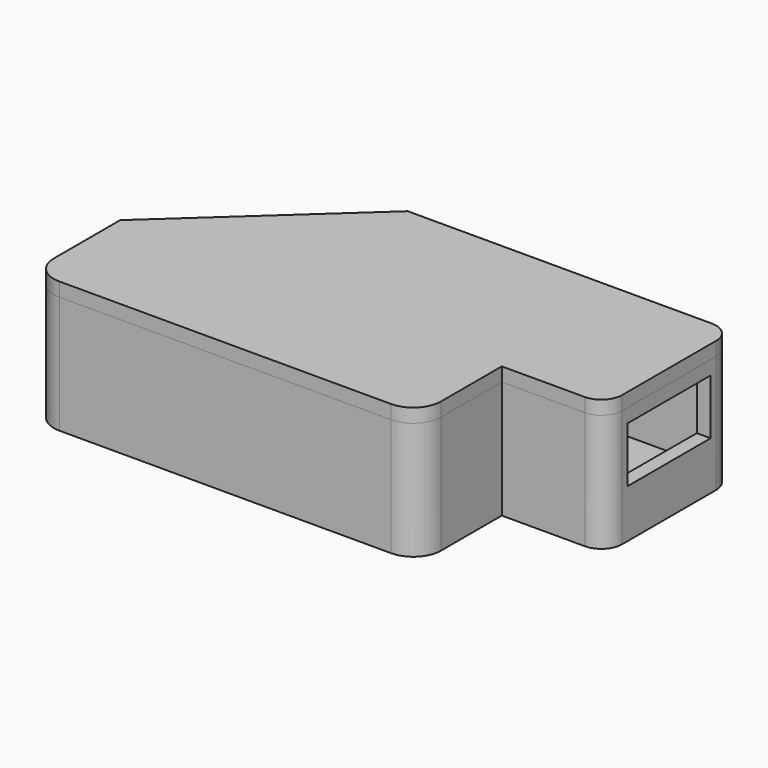
from build123d import *

# Parameters (mm, degrees)
CYLINDER001_R     = 2
CYLINDER001_DEPTH = 10
CYLINDER_R        = 2
CYLINDER_DEPTH    = 10
BOX004_W          = 15
BOX004_H          = 15
BOX004_DEPTH      = 8
BOX003_W          = 15
BOX003_H          = 15
BOX003_DEPTH      = 17
BOX002_W          = 15
BOX002_H          = 15
BOX002_DEPTH      = 15
BOX_W             = 67
BOX_H             = 34
BOX_DEPTH         = 15
CHAMFER_SIZE2     = 22
CHAMFER_SIZE      = 20
BOX001_W          = 71
BOX001_H          = 38
BOX001_DEPTH      = 17
CHAMFER001_SIZE2  = 24
CHAMFER001_SIZE   = 22
FILLET_R          = 4
FILLET001_R       = 2
FILLET002_R       = 4
FILLET003_R       = 2
FILLET004_R       = 1
FILLET005_R       = 3
BOX006_W          = 15
BOX006_H          = 15
BOX006_DEPTH      = 2
BOX005_W          = 71
BOX005_H          = 38
BOX005_DEPTH      = 2
FILLET006_R       = 4
FILLET007_R       = 4
CHAMFER002_SIZE2  = 24
CHAMFER002_SIZE   = 22
FILLET008_R       = 3


with BuildPart() as cylinder001:
    # Cylinder001 → Cylinder001 (new body)
    with BuildSketch(Plane(origin=(8, 17, 5), x_dir=(1, 0, 0), z_dir=(0, 1, 0))):
        Circle(CYLINDER001_R)
    extrude(amount=CYLINDER001_DEPTH)


with BuildPart() as cylinder:
    # Cylinder → Cylinder (new body)
    with BuildSketch(Plane(origin=(42, 32, 10), x_dir=(1, 0, 0), z_dir=(0, 1, 0))):
        Circle(CYLINDER_R)
    extrude(amount=CYLINDER_DEPTH)


with BuildPart() as cube004:
    # Box004 → Box004 (new body)
    with BuildSketch(Plane(origin=(66, 17, 5), x_dir=(1, 0, 0), z_dir=(0, 0, 1))):
        with Locations((7.5, 7.5)):
            Rectangle(BOX004_W, BOX004_H)
    extrude(amount=BOX004_DEPTH)


with BuildPart() as cube003:
    # Box003 → Box003 (new body)
    with BuildSketch(Plane(origin=(54, -2, -2), x_dir=(1, 0, 0), z_dir=(0, 0, 1))):
        with Locations((7.5, 7.5)):
            Rectangle(BOX003_W, BOX003_H)
    extrude(amount=BOX003_DEPTH)


with BuildPart() as cube002:
    # Box002 → Box002 (new body)
    with BuildSketch(Plane(origin=(52, 0, 0), x_dir=(1, 0, 0), z_dir=(0, 0, 1))):
        with Locations((7.5, 7.5)):
            Rectangle(BOX002_W, BOX002_H)
    extrude(amount=BOX002_DEPTH)


with BuildPart() as chamfer_body:
    # Box → Box (new body)
    with BuildSketch(Plane.XY):
        with Locations((33.5, 17)):
            Rectangle(BOX_W, BOX_H)
    extrude(amount=BOX_DEPTH)

    # Cut: cut Cube002
    add(cube002.part, mode=Mode.SUBTRACT)

    # Chamfer
    chamfer_edges = [chamfer_body.edges().sort_by_distance(p)[0] for p in [
        (0, 34, 7.5),
    ]]
    chamfer_side = chamfer_body.faces().sort_by_distance((0, 17, 7.5))[0]
    chamfer(chamfer_edges, length=CHAMFER_SIZE, length2=CHAMFER_SIZE2, reference=chamfer_side)


with BuildPart() as bottom:
    # Box001 → Box001 (new body)
    with BuildSketch(Plane(origin=(-2, -2, -2), x_dir=(1, 0, 0), z_dir=(0, 0, 1))):
        with Locations((35.5, 19)):
            Rectangle(BOX001_W, BOX001_H)
    extrude(amount=BOX001_DEPTH)

    # Cut001: cut Chamfer body
    add(chamfer_body.part, mode=Mode.SUBTRACT)

    # Cut002: cut Cube003
    add(cube003.part, mode=Mode.SUBTRACT)

    # Chamfer001
    chamfer001_edges = [bottom.edges().sort_by_distance(p)[0] for p in [
        (-2, 36, 6.5),
    ]]
    chamfer001_side = bottom.faces().sort_by_distance((-2, 17, 6.5))[0]
    chamfer(chamfer001_edges, length=CHAMFER001_SIZE, length2=CHAMFER001_SIZE2, reference=chamfer001_side)

    # Cut003: cut Cube004
    add(cube004.part, mode=Mode.SUBTRACT)

    # Cut004: cut Cylinder
    add(cylinder.part, mode=Mode.SUBTRACT)

    # Cut005: cut Cylinder001
    add(cylinder001.part, mode=Mode.SUBTRACT)

    # Fillet
    fillet_edges = [bottom.edges().sort_by_distance(p)[0] for p in [
        (-2, -2, 6.5),
    ]]
    fillet(fillet_edges, radius=FILLET_R)

    # Fillet001
    fillet001_edges = [bottom.edges().sort_by_distance(p)[0] for p in [
        (0, 0, 7.5),
    ]]
    fillet(fillet001_edges, radius=FILLET001_R)

    # Fillet002
    fillet002_edges = [bottom.edges().sort_by_distance(p)[0] for p in [
        (54, -2, 6.5),
    ]]
    fillet(fillet002_edges, radius=FILLET002_R)

    # Fillet003
    fillet003_edges = [bottom.edges().sort_by_distance(p)[0] for p in [
        (52, 0, 7.5),
    ]]
    fillet(fillet003_edges, radius=FILLET003_R)

    # Fillet004
    fillet004_edges = [bottom.edges().sort_by_distance(p)[0] for p in [
        (67, 15, 7.5),
        (67, 34, 7.5),
    ]]
    fillet(fillet004_edges, radius=FILLET004_R)

    # Fillet005
    fillet005_edges = [bottom.edges().sort_by_distance(p)[0] for p in [
        (69, 13, 6.5),
        (69, 36, 6.5),
    ]]
    fillet(fillet005_edges, radius=FILLET005_R)


with BuildPart() as cube006:
    # Box006 → Box006 (new body)
    with BuildSketch(Plane(origin=(54, -2, 0), x_dir=(1, 0, 0), z_dir=(0, 0, 1))):
        with Locations((7.5, 7.5)):
            Rectangle(BOX006_W, BOX006_H)
    extrude(amount=BOX006_DEPTH)


with BuildPart() as top:
    # Box005 → Box005 (new body)
    with BuildSketch(Plane(origin=(-2, -2, 0), x_dir=(1, 0, 0), z_dir=(0, 0, 1))):
        with Locations((35.5, 19)):
            Rectangle(BOX005_W, BOX005_H)
    extrude(amount=BOX005_DEPTH)

    # Cut006: cut Cube006
    add(cube006.part, mode=Mode.SUBTRACT)

    # Fillet006
    fillet006_edges = [top.edges().sort_by_distance(p)[0] for p in [
        (54, -2, 1),
    ]]
    fillet(fillet006_edges, radius=FILLET006_R)

    # Fillet007
    fillet007_edges = [top.edges().sort_by_distance(p)[0] for p in [
        (-2, -2, 1),
    ]]
    fillet(fillet007_edges, radius=FILLET007_R)

    # Chamfer002
    chamfer002_edges = [top.edges().sort_by_distance(p)[0] for p in [
        (-2, 36, 1),
    ]]
    chamfer002_side = top.faces().sort_by_distance((-2, 19, 1))[0]
    chamfer(chamfer002_edges, length=CHAMFER002_SIZE, length2=CHAMFER002_SIZE2, reference=chamfer002_side)

    # Fillet008
    fillet008_edges = [top.edges().sort_by_distance(p)[0] for p in [
        (69, 36, 1),
        (69, 13, 1),
    ]]
    fillet(fillet008_edges, radius=FILLET008_R)


with BuildPart() as top_1:
    # Fillet008 placement: moved
    add(top.part.moved(Location((0, 0, 15))))


solid = Compound([bottom.part, top_1.part])
